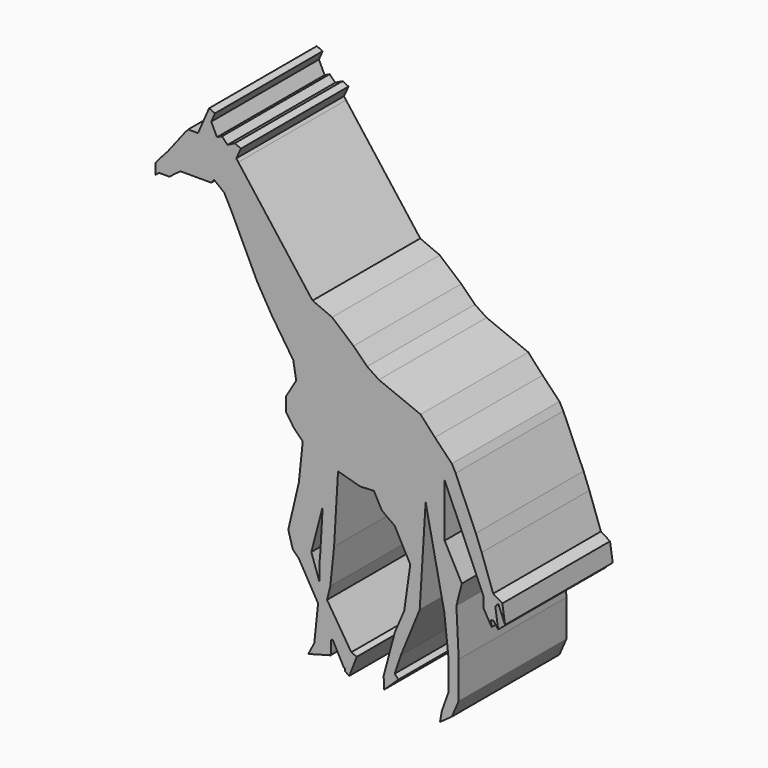
from build123d import *

# Parameters (mm, degrees)
F1_DEPTH = 25.4


with BuildPart() as f1:
    # F0 (on Front) → F1 (new body)
    with BuildSketch(Plane.XZ):
        Polygon((-4.807071, 1.577358), (-18.804783, 19.995399), (-19.201438, 20.510813), (-18.328309, 22.415822), (-19.470988, 22.93955), (-20.851724, 22.225376), (-21.888541, 23.302863), (-22.851409, 22.844328), (-23.918144, 25.084342), (-23.217195, 26.69334), (-24.327368, 27.17698), (-26.422277, 22.368211), (-28.279129, 22.368211), (-28.883137, 21.677395), (-32.133359, 17.464144), (-33.818658, 15.598277), (-34.480739, 14.755626), (-34.480739, 12.769381), (-33.818658, 13.371274), (-31.772222, 13.371274), (-30.989761, 14.033356), (-29.725786, 14.940684), (-26.475566, 14.940684), (-23.919655, 14.940684), (-23.405911, 15.598277), (-21.479854, 14.093545), (-20.130018, 11.494951), (-15.262124, 1.325255), (-12.446605, -3.467118), (-8.432992, -9.51749), (-7.893849, -12.752342), (-9.810799, -15.927291), (-9.810799, -18.563095), (-8.383603, -20.670711), (-6.653502, -22.416285), (0, -25.213145), (4.167965, -26.388429), (6.779463, -26.259693), (8.263807, -29.03047), (10.698803, -30.795518), (13.631921, -36.270678), (12.499449, -44.314019), (10.698803, -48.52825), (8.607689, -56.42225), (8.717785, -58.655619), (11.401466, -56.10612), (10.698803, -55.366475), (11.870418, -51.878039), (15.41289, -43.200385), (16.533865, -24.944445), (20.064365, -42.185199), (20.804008, -49.071185), (20.804008, -52.51319), (20.804008, -55.267211), (19.592239, -58.638137), (19.239724, -60.599003), (21.46933, -59.010107), (22.771196, -56.008819), (22.771196, -49.071185), (22.338118, -40.285911), (23.370066, -36.270678), (20.118674, -30.201407), (20.118674, -27.645931), (20.118674, -20.128688), (27.467125, -37.082013), (27.467125, -39.04331), (28.99437, -41.676154), (28.832508, -40.571583), (29.336633, -40.497709), (30.216336, -41.676154), (29.67385, -37.97416), (30.246906, -37.401102), (31.513076, -40.497709), (31.012544, -37.082013), (29.280987, -36.023837), (27.111409, -29.904326), (26.01208, -27.055074), (22.192179, -18.312787), (21.46933, -16.963469), (18.276872, -13.64822), (15.57556, -10.701334), (7.717195, -7.508874), (5.507031, -6.035431), (2.928506, -3.456905), (-1.123464, 0), align=None)
        Polygon((0, -25.213145), (-6.653502, -22.416285), (-7.403816, -29.544273), (-9.385442, -37.977327), (-8.536174, -40.962219), (-7.403816, -42.094577), (-3.761253, -48.406478), (-1.043809, -53.469059), (1.077536, -57.421111), (1.354785, -57.54178), (1.354785, -58.036473), (2.10664, -58.543845), (3.545563, -54.87987), (2.500879, -54.4696), (-2.067813, -47.252391), (-3.49469, -44.776939), (-5.039291, -40.263818), (-2.894435, -32.09877), align=None)
        Polygon((-0.742696, -37.977327), (0, -25.213145), (-2.894435, -32.09877), (-3.369526, -40.263818), (-3.49469, -41.377133), (-3.49469, -44.776939), (-2.067813, -47.252391), (-1.458444, -44.776939), align=None)
        Polygon((-1.043809, -53.469059), (-3.761253, -48.406478), (-4.477841, -55.21406), (-5.608209, -57.388235), (-1.396718, -56.248265), (-1.348698, -55.792075), (-1.348698, -53.771246), align=None)
    extrude(amount=F1_DEPTH)


solid = f1.part
